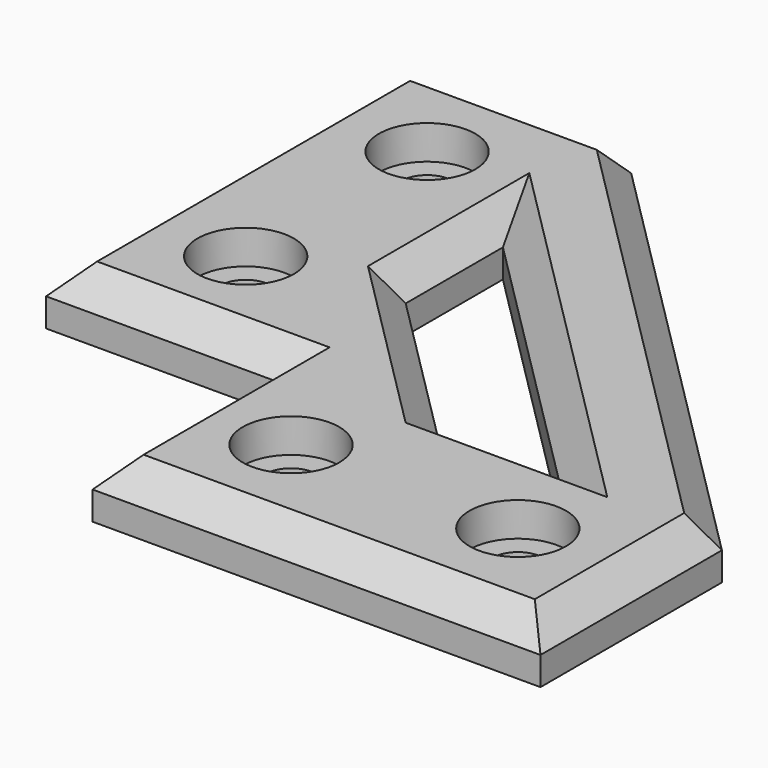
from build123d import *

# Parameters (mm, degrees)
F0_R     = 2.25
F1_DEPTH = 5
F2_SIZE  = 2.5
F3_R     = 4.25
F4_DEPTH = 3


with BuildPart() as f1:
    # F0 (on Top) → F1 (new body)
    with BuildSketch(Plane.XY):
        Polygon((0, 60), (0, 20.5), (20.5, 20.5), (20.5, 0), (60, 0), (60, 20), (20, 60), align=None)
        with Locations((10, 30)):
            Circle(F0_R, mode=Mode.SUBTRACT)
        with Locations((30, 10)):
            Circle(F0_R, mode=Mode.SUBTRACT)
        with Locations((50, 10)):
            Circle(F0_R, mode=Mode.SUBTRACT)
        with Locations((10, 50)):
            Circle(F0_R, mode=Mode.SUBTRACT)
        Polygon((20, 35.142136), (20, 45.857864), (45.857864, 20), (35.142136, 20), align=None, mode=Mode.SUBTRACT)
    extrude(amount=F1_DEPTH)

    # F2
    f2_edges = [f1.edges().sort_by_distance(p)[0] for p in [
        (10.25, 20.5, 5),
        (20.5, 10.25, 5),
        (40.25, 0, 5),
        (60, 10, 5),
        (40, 40, 5),
        (10, 60, 5),
        (0, 40.25, 5),
        (20, 40.5, 5),
        (32.928932, 32.928932, 5),
        (40.5, 20, 5),
        (27.571068, 27.571068, 5),
    ]]
    chamfer(f2_edges, length=F2_SIZE)

    # F3 (on face) → F4 (cut)
    with BuildSketch(Plane.XY.offset(5)):
        with Locations((10, 50)):
            Circle(F3_R)
        with Locations((10, 30)):
            Circle(F3_R)
        with Locations((30, 10)):
            Circle(F3_R)
        with Locations((50, 10)):
            Circle(F3_R)
    extrude(amount=-F4_DEPTH, mode=Mode.SUBTRACT)


solid = f1.part
